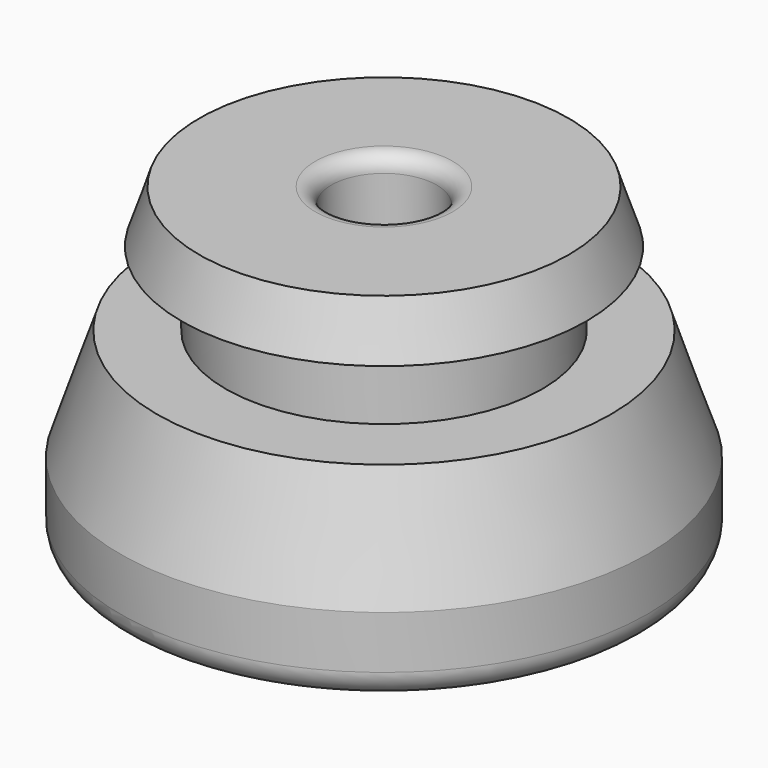
from build123d import *

# Parameters (mm, degrees)
F2_R = 30
F3_R = 50
F4_R = 50


with BuildPart() as f1:
    # F0 (on Front) → F1 (revolve)
    with BuildSketch(Plane.XZ):
        Polygon((350, 300), (100, 300), (100, 150), (225, 0), (225, -300), (500, -300), (500, -150), (430, 60), (300, 60), (300, 200), (383.333333, 200), align=None)
    revolve(axis=Axis((0, 0, 0), (0, 0, -1)))

    # F2
    f2_edges = [f1.edges().sort_by_distance(p)[0] for p in [
        (-100, 0, 300),
    ]]
    fillet(f2_edges, radius=F2_R)

    # F3
    f3_edges = [f1.edges().sort_by_distance(p)[0] for p in [
        (-500, 0, -300),
    ]]
    fillet(f3_edges, radius=F3_R)

    # F4
    f4_edges = [f1.edges().sort_by_distance(p)[0] for p in [
        (-225, 0, -300),
    ]]
    fillet(f4_edges, radius=F4_R)


solid = f1.part
